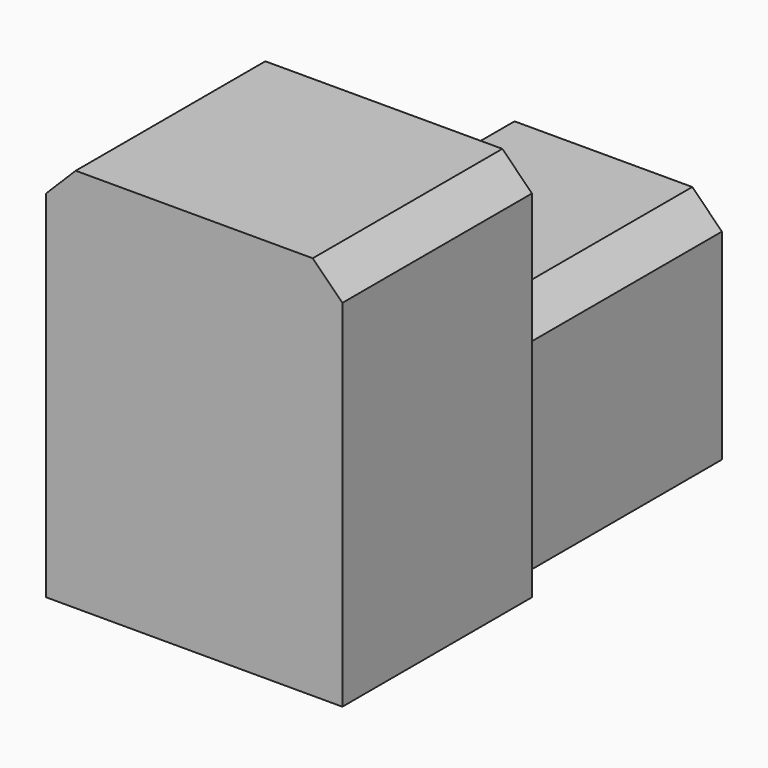
from build123d import *

# Parameters (mm, degrees)
F1_DEPTH = 877
F3_DEPTH = 406.4


with BuildPart() as f1:
    # F0 (on Front) → F1 (new body)
    with BuildSketch(Plane.XZ):
        Polygon((-200.083994, 140.112044), (-200.083994, -204.083866), (206.316006, -204.083866), (206.316006, 140.112044), (155.516006, 190.912044), (-149.283994, 190.912044), align=None)
    extrude(amount=F1_DEPTH)

    # F2 (on face) → F3 (join)
    with BuildSketch(Plane.XZ.offset(877)):
        Polygon((-250.883994, 405.516134), (-250.883994, -204.083866), (-200.083994, -204.083866), (-200.083994, 140.112044), (-149.283994, 190.912044), (155.516006, 190.912044), (206.316006, 140.112044), (206.316006, -204.083866), (257.116006, -204.083866), (257.116006, 405.516134), (206.316006, 456.316134), (-200.083994, 456.316134), align=None)
    extrude(amount=-F3_DEPTH)


solid = f1.part
